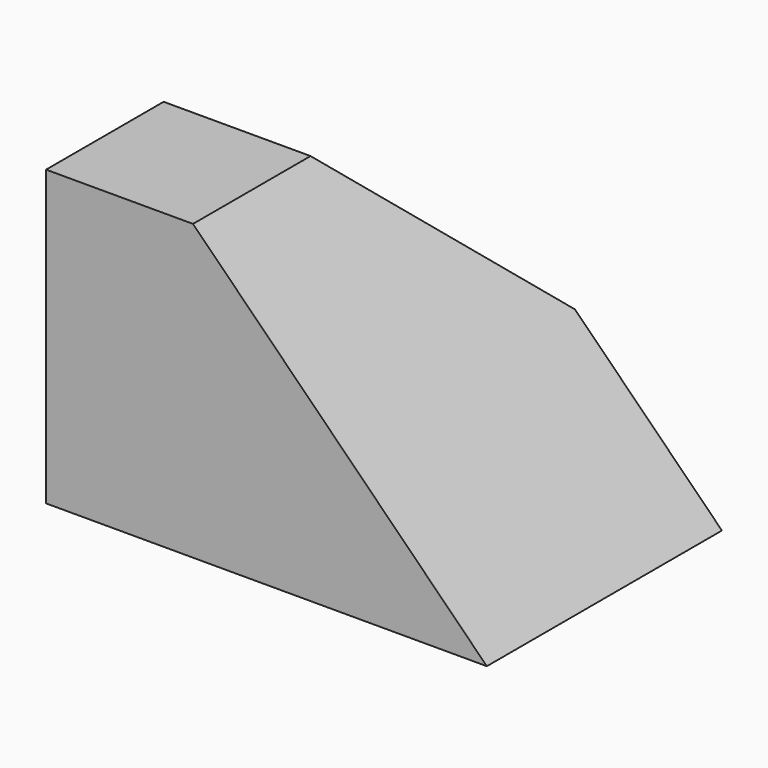
from build123d import *

# Parameters (mm, degrees)
F0_W     = 25.4
F0_H     = 25.4
F1_DEPTH = 50.8
F3_DEPTH = 76.201


with BuildPart() as f1:
    # F0 (on Front) → F1 (new body)
    with BuildSketch(Plane.XZ):
        Polygon((25.4, 25.4), (76.2, 0), (25.4, 50.8), align=None)
        with Locations((12.7, 38.1)):
            Rectangle(F0_W, F0_H)
        Polygon((0, 25.4), (0, 0), (76.2, 0), (25.4, 25.4), align=None)
    extrude(amount=F1_DEPTH)

    # F2 (on face) → F3 (cut, through all)
    with BuildSketch(Plane(origin=(0, 0, 0), x_dir=(0, -1, 0), z_dir=(-1, 0, 0))):
        Polygon((0, 25.4), (25.4, 50.8), (0, 50.8), align=None)
    extrude(amount=-F3_DEPTH, mode=Mode.SUBTRACT)


solid = f1.part
